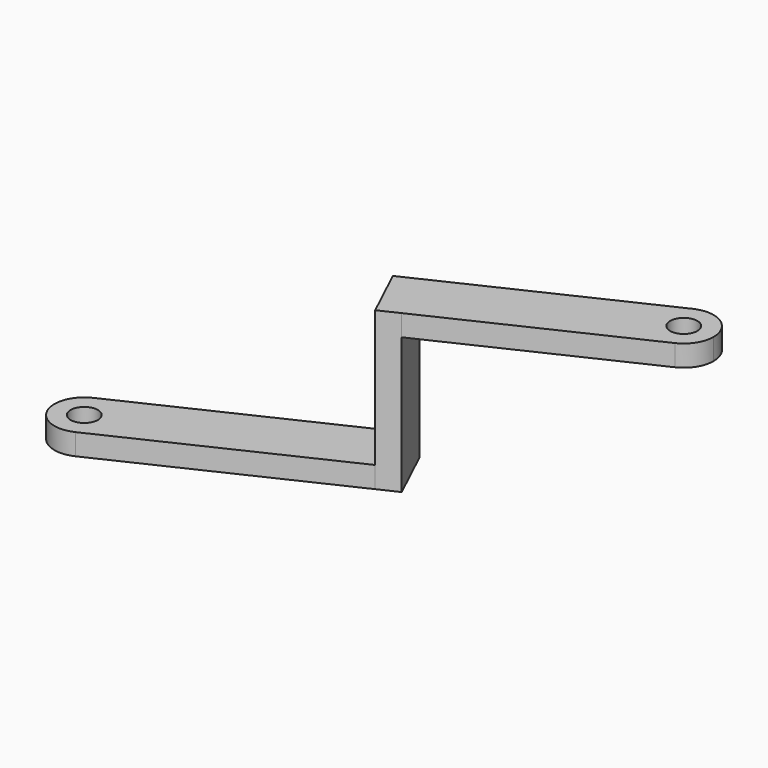
from build123d import *

# Parameters (mm, degrees)
F1_R     = 1.6
F2_DEPTH = 2.5
F3_W     = 7
F3_H     = 18.5
F4_DEPTH = 2.5
F5_R     = 1.6
F6_DEPTH = 2.5


with BuildPart() as f2:
    # F1 (on offset) → F2 (new body)
    with BuildSketch(Plane.XY.offset(16)):
        with BuildLine():
            ThreePointArc((48.0560038294, 18.8446410406), (49.5170345112, 20.1361157487), (50.0602513075, 22.0089299644))
            ThreePointArc((50.0602513075, 22.0089299644), (48.4330655233, 24.9657131681), (45.0644987857, 25.1732188883))
            ThreePointArc((45.0644987857, 25.1732188883), (43.3959623837, 20.5131774426), (48.0560038294, 18.8446410406))
        make_face()
        with Locations((46.5602513075, 22.0089299644)):
            Circle(F1_R, mode=Mode.SUBTRACT)
        with BuildLine():
            ThreePointArc((48.0560038294, 18.8446410406), (43.3959623837, 20.5131774426), (45.0644987857, 25.1732188883))
            Line((45.0644987857, 25.1732188883), (21.7843731319, 14.168753906))
            Line((21.7843731319, 14.168753906), (24.7758781756, 7.8401760584))
            Line((24.7758781756, 7.8401760584), (48.0560038294, 18.8446410406))
        make_face()
    extrude(amount=F2_DEPTH)

    # F3 (on face) → F4 (join)
    with BuildSketch(Plane(origin=(23.2801256538, 11.0044649822, 0), x_dir=(0.4273578634, -0.9040825497, 0), z_dir=(-0.9040825497, -0.4273578634, 0))):
        with Locations((0, 9.25)):
            Rectangle(F3_W, F3_H)
    extrude(amount=F4_DEPTH)

    # F5 (on Top) → F6 (join)
    with BuildSketch(Plane.XY):
        with BuildLine():
            ThreePointArc((-3.0246602264, -5.3010782407), (-1.5636295447, -4.0096035327), (-1.0204127483, -2.1367893169))
            ThreePointArc((-1.0204127483, -2.1367893169), (-2.6475985325, 0.8199938867), (-6.0161652702, 1.0274996069))
            ThreePointArc((-6.0161652702, 1.0274996069), (-7.6847016721, -3.6325418388), (-3.0246602264, -5.3010782407))
        make_face()
        with Locations((-4.5204127483, -2.1367893169)):
            Circle(F5_R, mode=Mode.SUBTRACT)
        with BuildLine():
            ThreePointArc((-6.0161652702, 1.0274996069), (-2.6475985325, 0.8199938867), (-1.0204127483, -2.1367893169))
            ThreePointArc((-1.0204127483, -2.1367893169), (-1.5636295447, -4.0096035327), (-3.0246602264, -5.3010782407))
            Line((-3.0246602264, -5.3010782407), (22.5156718015, 6.7717813999))
            Line((22.5156718015, 6.7717813999), (19.5241667578, 13.1003592476))
            Line((19.5241667578, 13.1003592476), (-6.0161652702, 1.0274996069))
        make_face()
    extrude(amount=F6_DEPTH)


solid = f2.part
